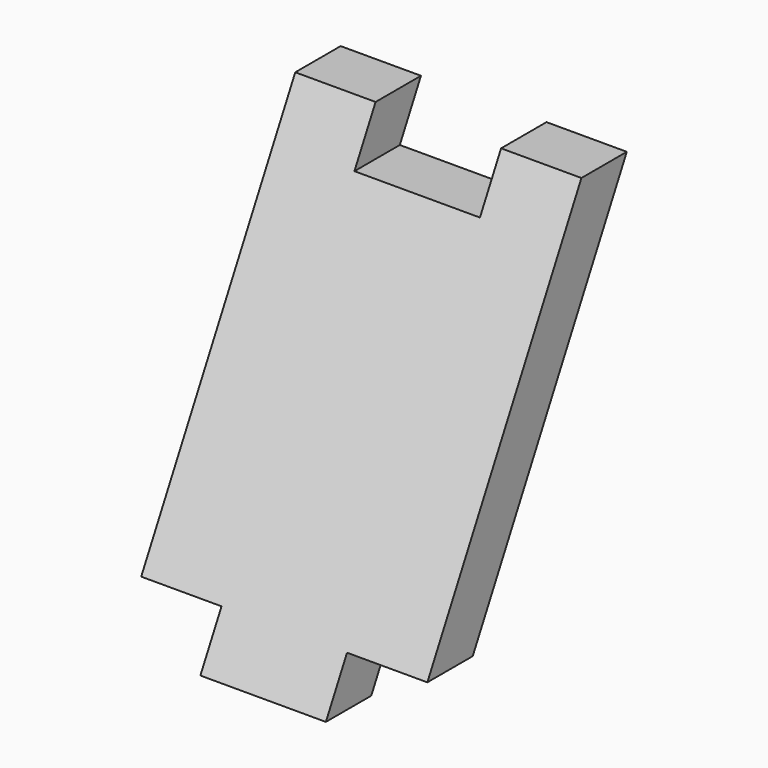
from build123d import *

# Parameters (mm, degrees)
PAD045_DEPTH    = 57
POCKET040_DEPTH = 16
POCKET039_DEPTH = 16
SKETCH087_W     = 20
SKETCH087_H     = 25
POCKET041_DEPTH = 10


with BuildPart() as part:
    # Sketch101 → Pad045 (new body)
    with BuildSketch(Plane.YZ):
        Polygon((54.734671, -10), (98.357923, 72.85), (87.056432, 72.85), (43.43318, -10), align=None)
    extrude(amount=-PAD045_DEPTH)

    # Sketch102 (on Face5 of Pad045) → Pocket040 (cut)
    with BuildSketch(Plane.YZ):
        Polygon((43.43318, -10), (54.734671, -10), (60, 0), (48.698509, 0), align=None)
    extrude(amount=-POCKET040_DEPTH, mode=Mode.SUBTRACT)

    # Sketch086 (on Face6 of Pocket040) → Pocket039 (cut)
    with BuildSketch(Plane(origin=(-57, 0, 0), x_dir=(0, 1, 0), z_dir=(-1, 0, 0))):
        Polygon((43.43318, 10), (54.734671, 10), (60, 0), (48.698509, 0), align=None)
    extrude(amount=-POCKET039_DEPTH, mode=Mode.SUBTRACT)

    # Sketch087 (on Face5 of Pocket039) → Pocket041 (cut)
    with BuildSketch(Plane(origin=(0, 0, 72.85), x_dir=(0, -1, 0), z_dir=(0, 0, 1))):
        with Locations((-88.357923, -28.5)):
            Rectangle(SKETCH087_W, SKETCH087_H)
    extrude(amount=-POCKET041_DEPTH, mode=Mode.SUBTRACT)


with BuildPart() as part_1:
    # Body021 placement: moved
    add(part.part.moved(Location((0, 5, 0))))


solid = part_1.part
